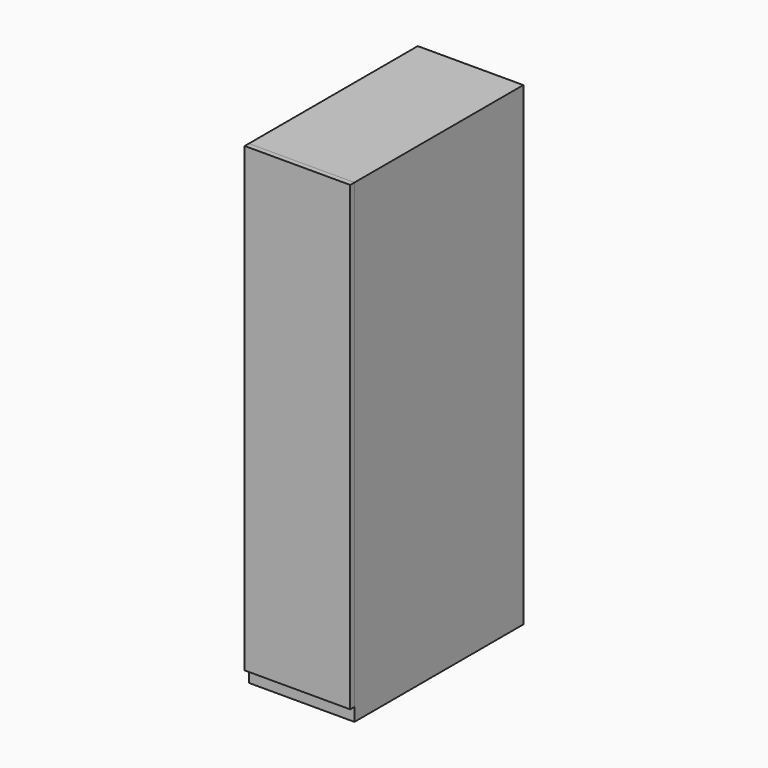
from build123d import *

# Parameters (mm, degrees)
F0_W     = 200
F0_H     = 400
F1_DEPTH = 900
F2_START = 25
F0_H_2   = 10
F2_DEPTH = 875


with BuildPart() as f1:
    # F0 (on Top) → F1 (new body)
    with BuildSketch(Plane.XY):
        with Locations((-50.3082090989, 87.1011307836)):
            Rectangle(F0_W, F0_H)
    extrude(amount=F1_DEPTH)


with BuildPart() as f2:
    # F0 (on Top) → F2 (new body)
    with BuildSketch(Plane.XY.offset(F2_START)):
        with Locations((-50.3082090989, -117.8988692164)):
            Rectangle(F0_W, F0_H_2)
    extrude(amount=F2_DEPTH)


solid = Compound([f1.part, f2.part])
